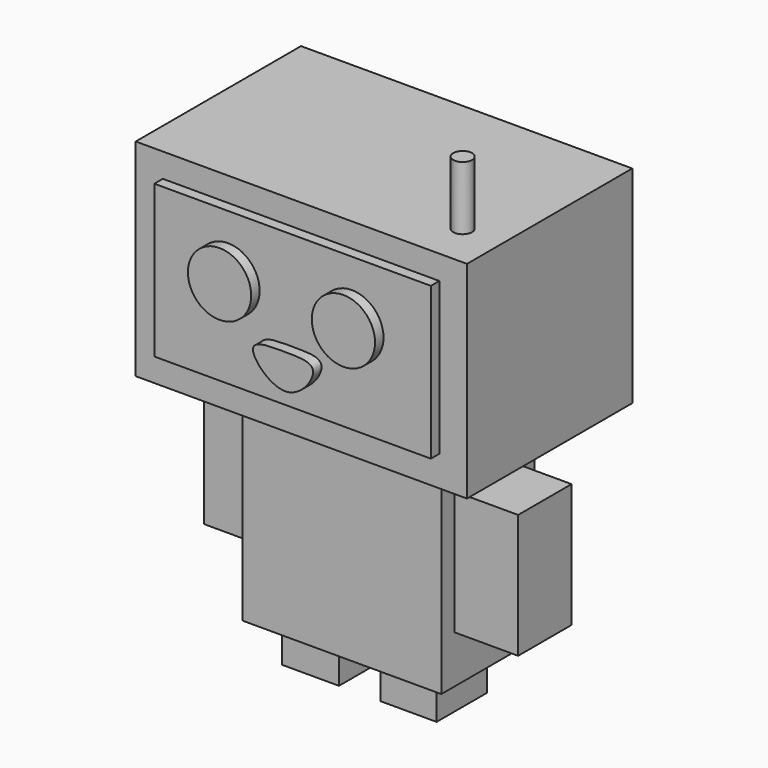
from build123d import *

# Parameters (mm, degrees)
F0_W      = 39.7095009685
F0_H      = 24.7672665864
F1_DEPTH  = 24.765
F2_W      = 23.8453457132
F2_H      = 13.9918969944
F3_DEPTH  = 25.4
F4_W      = 6.7402645946
F4_H      = 14.7056742571
F5_DEPTH  = 7.62
F6_W      = 8.0039296299
F6_H      = 14.8659497499
F7_DEPTH  = 7.62
F8_W      = 6.8519285414
F8_H      = 7.4549559504
F8_W_2    = 6.698246114
F8_H_2    = 7.5303334743
F9_DEPTH  = 5.08
F10_W     = 33.1446304917
F10_H     = 18.2367824018
F11_DEPTH = 1.27
F12_R     = 3.790583573
F12_R_2   = 3.790584201
F13_DEPTH = 1.27
F14_R     = 1.1256242995
F15_DEPTH = 7.62


with BuildPart() as f1:
    # F0 (on Front) → F1 (new body)
    with BuildSketch(Plane.XZ):
        with Locations((-0.1829620451, 37.2313475236)):
            Rectangle(F0_W, F0_H)
    extrude(amount=F1_DEPTH)

    # F2 (on face) → F3 (join)
    with BuildSketch(Plane(origin=(0, 0, 24.8477142304), x_dir=(1, 0, 0), z_dir=(0, 0, -1))):
        with Locations((0.1507359557, 12.1197416447)):
            Rectangle(F2_W, F2_H)
    extrude(amount=F3_DEPTH)

    # F4 (on face) → F5 (join)
    with BuildSketch(Plane(origin=(-11.7719369009, 0, 0), x_dir=(0, -1, 0), z_dir=(-1, 0, 0))):
        with Locations((11.9688315317, 12.9703220446)):
            Rectangle(F4_W, F4_H)
    extrude(amount=F5_DEPTH)

    # F6 (on face) → F7 (join)
    with BuildSketch(Plane.YZ.offset(12.0734088123)):
        with Locations((-13.127992861, 12.5903561711)):
            Rectangle(F6_W, F6_H)
    extrude(amount=F7_DEPTH)

    # F8 (on face) → F9 (join)
    with BuildSketch(Plane(origin=(0, 0, -0.5522857696), x_dir=(1, 0, 0), z_dir=(0, 0, -1))):
        with Locations((-5.9734758688, 12.4474996701)):
            Rectangle(F8_W, F8_H)
        with Locations((5.8084283955, 12.4098109081)):
            Rectangle(F8_W_2, F8_H_2)
    extrude(amount=F9_DEPTH)

    # F10 (on face) → F11 (join)
    with BuildSketch(Plane.XZ.offset(24.765)):
        with Locations((-0.2155154943, 37.6151073724)):
            Rectangle(F10_W, F10_H)
    extrude(amount=F11_DEPTH)

    # F12 (on face) → F13 (join)
    with BuildSketch(Plane.XZ.offset(26.035)):
        with Locations((-7.9581402242, 39.5428165793)):
            Circle(F12_R)
        with Locations((6.8902717903, 39.42110762)):
            Circle(F12_R_2)
        with BuildLine():
            add(Edge.make_bspline(
                [(3.2390230335, 34.0659432113), (3.0810302353, 34.9220679818), (0.036704506, 34.8800177819), (-6.049244101, 35.0644989514), (0.143997862, 28.5163578143), (3.4244660087, 33.0610725698), (3.2390230335, 34.0659432113)],
                knots=[0, 0, 0, 0, 0.2217830764, 0.4651495707, 0.7396836186, 1, 1, 1, 1], degree=3))
        make_face()
    extrude(amount=F13_DEPTH)

    # F14 (on face) → F15 (join)
    with BuildSketch(Plane.XY.offset(49.6149808168)):
        with Locations((14.9038648233, -19.4570012391)):
            Circle(F14_R)
    extrude(amount=F15_DEPTH)


solid = f1.part
